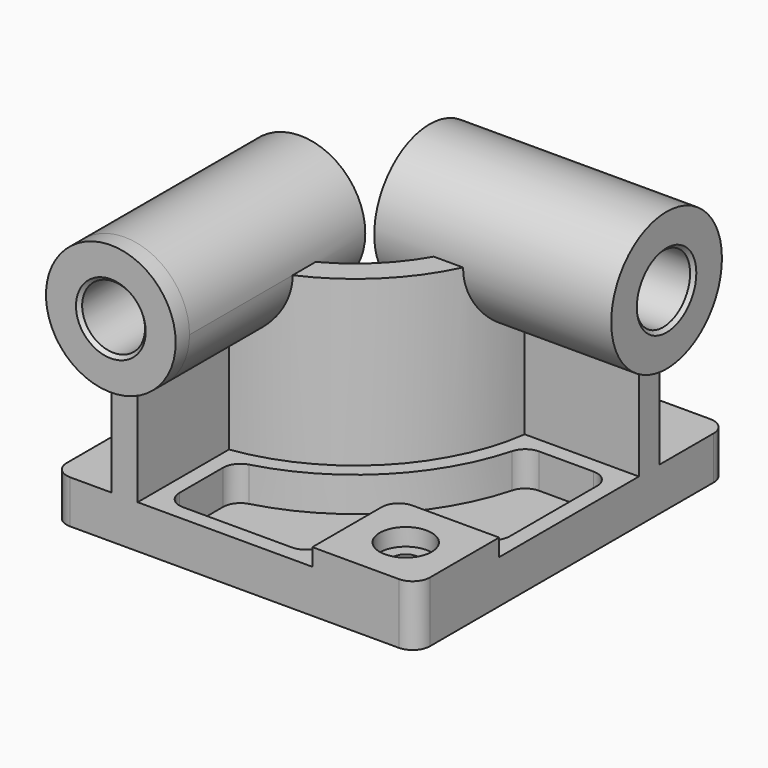
from build123d import *

# Parameters (mm, degrees)
F0_W            = 210
F0_H            = 225
F1_DEPTH        = 25
F3_DEPTH        = 95
F4_R            = 37.5
F5_DEPTH        = 10
F5_DEPTH_BACK   = 127
F7_DEPTH        = 10
F7_DEPTH_BACK   = 127
F8_W            = 60
F8_H            = 60
F9_DEPTH        = 10
F10_R           = 10
F12_DEPTH       = 20
F14_D           = 15
F14_CBORE_D     = 30
F14_CBORE_DEPTH = 10
F15_R           = 10
F16_R           = 18.1648840972
F17_DEPTH       = 235.001
F18_R           = 19.5
F19_DEPTH       = 220.001
F20_SIZE        = 2
F21_R           = 10


with BuildPart() as f1:
    # F0 (on Top) → F1 (new body)
    with BuildSketch(Plane.XY):
        Rectangle(F0_W, F0_H)
    extrude(amount=F1_DEPTH)

    # F2 (on face) → F3 (join)
    with BuildSketch(Plane.XY.offset(25)):
        with BuildLine():
            Line((-71, -32.5), (-71, -112.5))
            Line((-71, -112.5), (-56, -112.5))
            Line((-56, -112.5), (-56, -46.4818166789))
            ThreePointArc((-56, -46.4818166789), (7.4888527117, -14.9888527117), (38.9818166789, 48.5))
            Line((38.9818166789, 48.5), (105, 48.5))
            Line((105, 48.5), (105, 63.5))
            Line((105, 63.5), (25, 63.5))
            ThreePointArc((25, 63.5), (-3.1177490061, -4.3822509939), (-71, -32.5))
        make_face()
    extrude(amount=F3_DEPTH)

    # F4 (on face) → F5 (join, two sides)
    with BuildSketch(Plane.XZ.offset(112.5)) as f5_sk:
        with Locations((-63.5, 120)):
            Circle(F4_R)
    extrude(amount=F5_DEPTH)
    extrude(f5_sk.sketch, amount=-F5_DEPTH_BACK)

    # F6 (on face) → F7 (join, two sides)
    with BuildSketch(Plane.YZ.offset(105)) as f7_sk:
        with BuildLine():
            ThreePointArc((63.5, 80.7094158862), (86.8220700148, 94.504902432), (96, 120))
            ThreePointArc((96, 120), (30.504902432, 150.8220700148), (48.5, 80.7094158862))
            Line((48.5, 80.7094158862), (48.5, 120))
            Line((48.5, 120), (63.5, 120))
            Line((63.5, 120), (63.5, 80.7094158862))
        make_face()
        with BuildLine():
            Line((48.5, 120), (48.5, 80.7094158862))
            ThreePointArc((48.5, 80.7094158862), (56, 80), (63.5, 80.7094158862))
            Line((63.5, 80.7094158862), (63.5, 120))
            Line((63.5, 120), (48.5, 120))
        make_face()
    extrude(amount=F7_DEPTH)
    extrude(f7_sk.sketch, amount=-F7_DEPTH_BACK)

    # F8 (on face) → F9 (join)
    with BuildSketch(Plane.XY.offset(25)):
        with Locations((75, -82.5)):
            Rectangle(F8_W, F8_H)
    extrude(amount=F9_DEPTH)

    # F10
    f10_edges = [f1.edges().sort_by_distance(p)[0] for p in [
        (45, -52.5, 30),
    ]]
    fillet(f10_edges, radius=F10_R)

    # F11 (on face) → F12 (cut)
    with BuildSketch(Plane.XY.offset(25)):
        with BuildLine():
            ThreePointArc((46.5755076536, 39.5), (13.8528137424, -21.3528137424), (-47, -54.0755076536))
            Line((-47, -54.0755076536), (-47, -103.5))
            Line((-47, -103.5), (36, -103.5))
            Line((36, -103.5), (36, -62.5))
            ThreePointArc((36, -62.5), (41.5649711575, -49.0649711575), (55, -43.5))
            Line((55, -43.5), (96, -43.5))
            Line((96, -43.5), (96, 39.5))
            Line((96, 39.5), (46.5755076536, 39.5))
        make_face()
    extrude(amount=-F12_DEPTH, mode=Mode.SUBTRACT)

    # F14 (through all)
    with Locations(Plane.XY.offset(35)):
        with Locations((75, -82.5)):
            CounterBoreHole(F14_D / 2, F14_CBORE_D / 2, F14_CBORE_DEPTH)

    # F15
    f15_edges = [f1.edges().sort_by_distance(p)[0] for p in [
        (-47, -54.075508, 15),
        (-47, -103.5, 15),
        (46.575508, 39.5, 15),
        (96, 39.5, 15),
        (96, -43.5, 15),
        (36, -103.5, 15),
    ]]
    fillet(f15_edges, radius=F15_R)

    # F16 (on face) → F17 (cut, through all)
    with BuildSketch(Plane.XZ.offset(122.5)):
        with Locations((-63.5, 120)):
            Circle(F16_R)
    extrude(amount=-F17_DEPTH, mode=Mode.SUBTRACT)

    # F18 (on face) → F19 (cut, through all)
    with BuildSketch(Plane.YZ.offset(115)):
        with Locations((56, 120)):
            Circle(F18_R)
    extrude(amount=-F19_DEPTH, mode=Mode.SUBTRACT)

    # F20
    f20_edges = [f1.edges().sort_by_distance(p)[0] for p in [
        (-81.664884, -122.5, 120),
        (115, 36.5, 120),
        (-81.664884, 14.5, 120),
        (-22, 36.5, 120),
    ]]
    chamfer(f20_edges, length=F20_SIZE)

    # F21
    f21_edges = [f1.edges().sort_by_distance(p)[0] for p in [
        (105, -112.5, 17.5),
        (105, 112.5, 12.5),
        (-105, 112.5, 12.5),
        (-105, -112.5, 12.5),
    ]]
    fillet(f21_edges, radius=F21_R)


solid = f1.part
